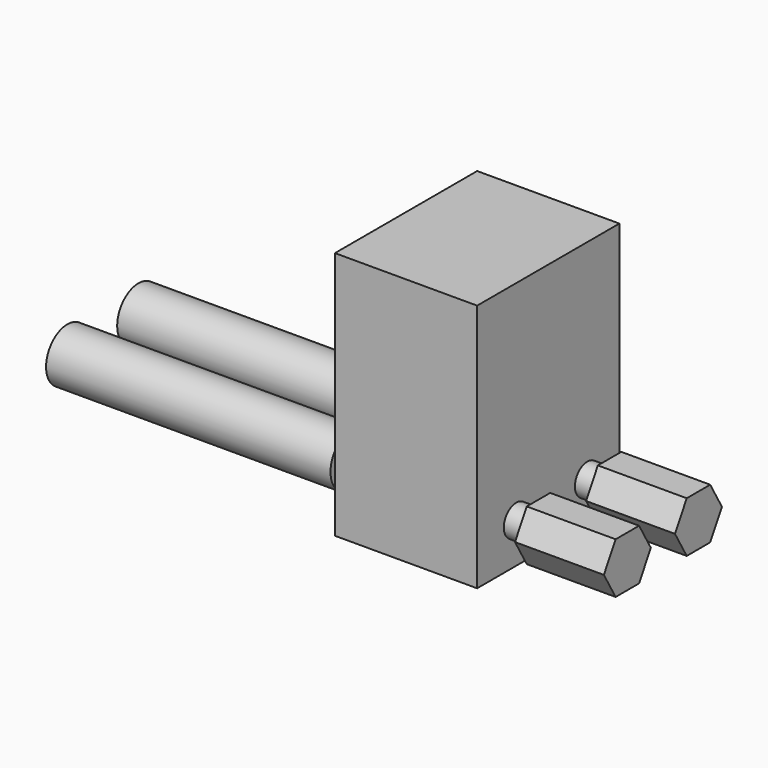
from build123d import *

# Parameters (mm, degrees)
PRISM002_DEPTH           = 10
PRISM002_ROLL_ANGLE      = -90
CYLINDER051_R            = 3
CYLINDER051_DEPTH        = 32
CYLINDER051_ROLL_ANGLE   = -90
CYLINDER052_R            = 3
CYLINDER052_DEPTH        = 32
CYLINDER052_ROLL_ANGLE   = -90
BOX040_W                 = 20
BOX040_H                 = 16
BOX040_DEPTH             = 28
CYLINDER053_R            = 1.75
CYLINDER053_DEPTH        = 32
CYLINDER053_ROLL_ANGLE   = -90
CYLINDER054_R            = 1.75
CYLINDER054_DEPTH        = 32
CYLINDER054_ROLL_ANGLE   = -90
PRISM001_DEPTH           = 10
PRISM001_ROLL_ANGLE      = -90
CLONE014_PLACEMENT_ANGLE = -90


with BuildPart() as prisma002:
    # Prism002 → Prism002 (new body)
    with BuildSketch(Plane.XY):
        Polygon((3.3, 0), (1.65, 2.857884), (-1.65, 2.857884), (-3.3, 0), (-1.65, -2.857884), (1.65, -2.857884), align=None)
    extrude(amount=PRISM002_DEPTH)


with BuildPart() as prisma002_1:
    # Prism002 roll: moved
    add(prisma002.part.rotate(Axis((0, 0, 0), (1, 0, 0)), PRISM002_ROLL_ANGLE))


with BuildPart() as prisma002_2:
    # Prism002 placement: moved
    add(prisma002_1.part.moved(Location((8, 85, 84))))


with BuildPart() as cilindro017:
    # Cylinder051 → Cylinder051 (new body)
    with BuildSketch(Plane.XY):
        Circle(CYLINDER051_R)
    extrude(amount=CYLINDER051_DEPTH)


with BuildPart() as cilindro017_1:
    # Cylinder051 roll: moved
    add(cilindro017.part.rotate(Axis((0, 0, 0), (1, 0, 0)), CYLINDER051_ROLL_ANGLE))


with BuildPart() as cilindro017_2:
    # Cylinder051 placement: moved
    add(cilindro017_1.part.moved(Location((18, 116, 84))))


with BuildPart() as cilindro018:
    # Cylinder052 → Cylinder052 (new body)
    with BuildSketch(Plane.XY):
        Circle(CYLINDER052_R)
    extrude(amount=CYLINDER052_DEPTH)


with BuildPart() as cilindro018_1:
    # Cylinder052 roll: moved
    add(cilindro018.part.rotate(Axis((0, 0, 0), (1, 0, 0)), CYLINDER052_ROLL_ANGLE))


with BuildPart() as cilindro018_2:
    # Cylinder052 placement: moved
    add(cilindro018_1.part.moved(Location((8, 116, 84))))


with BuildPart() as cubo005:
    # Box040 → Box040 (new body)
    with BuildSketch(Plane(origin=(3.5, 97.5, 79.5), x_dir=(1, 0, 0), z_dir=(0, 0, 1))):
        with Locations((10, 8)):
            Rectangle(BOX040_W, BOX040_H)
    extrude(amount=BOX040_DEPTH)


with BuildPart() as cilindro013:
    # Cylinder053 → Cylinder053 (new body)
    with BuildSketch(Plane.XY):
        Circle(CYLINDER053_R)
    extrude(amount=CYLINDER053_DEPTH)


with BuildPart() as cilindro013_1:
    # Cylinder053 roll: moved
    add(cilindro013.part.rotate(Axis((0, 0, 0), (1, 0, 0)), CYLINDER053_ROLL_ANGLE))


with BuildPart() as cilindro013_2:
    # Cylinder053 placement: moved
    add(cilindro013_1.part.moved(Location((18, 90, 84))))


with BuildPart() as cilindro012:
    # Cylinder054 → Cylinder054 (new body)
    with BuildSketch(Plane.XY):
        Circle(CYLINDER054_R)
    extrude(amount=CYLINDER054_DEPTH)


with BuildPart() as cilindro012_1:
    # Cylinder054 roll: moved
    add(cilindro012.part.rotate(Axis((0, 0, 0), (1, 0, 0)), CYLINDER054_ROLL_ANGLE))


with BuildPart() as cilindro012_2:
    # Cylinder054 placement: moved
    add(cilindro012_1.part.moved(Location((8, 90, 84))))


with BuildPart() as clone_of_arm_positive_cut_left:
    # Prism001 → Prism001 (new body)
    with BuildSketch(Plane.XY):
        Polygon((3.3, 0), (1.65, 2.857884), (-1.65, 2.857884), (-3.3, 0), (-1.65, -2.857884), (1.65, -2.857884), align=None)
    extrude(amount=PRISM001_DEPTH)


with BuildPart() as clone_of_arm_positive_cut_left_1:
    # Prism001 roll: moved
    add(clone_of_arm_positive_cut_left.part.rotate(Axis((0, 0, 0), (1, 0, 0)), PRISM001_ROLL_ANGLE))


with BuildPart() as clone_of_arm_positive_cut_left_2:
    # Prism001 placement: moved
    add(clone_of_arm_positive_cut_left_1.part.moved(Location((18, 85, 84))))

    # Fusion036: union Prisma002, Cilindro017, Cilindro018, Cubo005, Cilindro013, Cilindro012
    add(prisma002_2.part)
    add(cilindro017_2.part)
    add(cilindro018_2.part)
    add(cubo005.part)
    add(cilindro013_2.part)
    add(cilindro012_2.part)


with BuildPart() as clone_of_arm_positive_cut_left_3:
    # Clone014 placement: moved
    add(clone_of_arm_positive_cut_left_2.part.moved(Location((-275, 70, 2.8))).rotate(Axis((-275, 70, 2.8), (0, 0, 1)), CLONE014_PLACEMENT_ANGLE))


with BuildPart() as clone_of_arm_positive_cut_right:
    # Part__Mirroring009: instance of Clone of arm-positive-cut-left
    add(clone_of_arm_positive_cut_left_3.part.mirror(Plane(origin=(0, 0, 0), x_dir=(0, -1, 0), z_dir=(1, 0, 0))))


with BuildPart() as clone_of_arm_positive_cut_right_1:
    # Part__Mirroring009 placement: moved
    add(clone_of_arm_positive_cut_right.part.moved(Location((-478, 0, 0))))


solid = clone_of_arm_positive_cut_right_1.part
